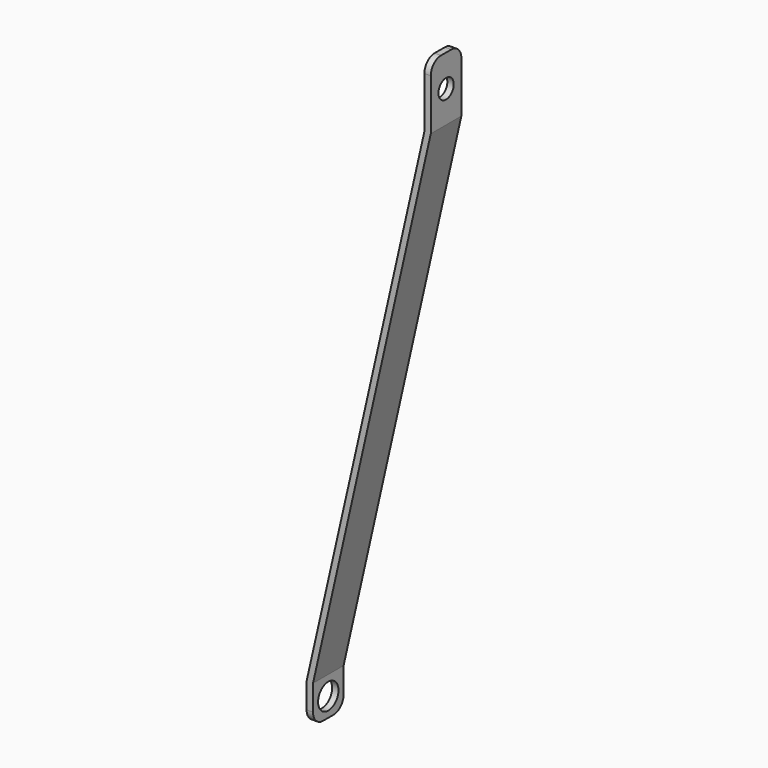
from build123d import *

# Parameters (mm, degrees)
F1_DEPTH = 30
F2_R     = 7.5
F3_DEPTH = 97.501
F4_R     = 10
F5_DEPTH = 5.001
F6_R     = 10


with BuildPart() as f1:
    # F0 (on Front) → F1 (new body)
    with BuildSketch(Plane.XZ):
        Polygon((0, 50), (0, 0), (-92.5, -410), (-92.5, -440), (-87.5, -440), (-87.5, -410), (5, 0), (5, 50), align=None)
    extrude(amount=F1_DEPTH)

    # F2 (on face) → F3 (cut, through all)
    with BuildSketch(Plane.YZ.offset(5)):
        with Locations((-15, 25)):
            Circle(F2_R)
    extrude(amount=-F3_DEPTH, mode=Mode.SUBTRACT)

    # F4 (on face) → F5 (cut, through all)
    with BuildSketch(Plane.YZ.offset(-87.5)):
        with Locations((-15, -425)):
            Circle(F4_R)
    extrude(amount=-F5_DEPTH, mode=Mode.SUBTRACT)

    # F6
    f6_edges = [f1.edges().sort_by_distance(p)[0] for p in [
        (-90, -30, -440),
        (-90, 0, -440),
        (2.5, -30, 50),
        (2.5, 0, 50),
    ]]
    fillet(f6_edges, radius=F6_R)


solid = f1.part
